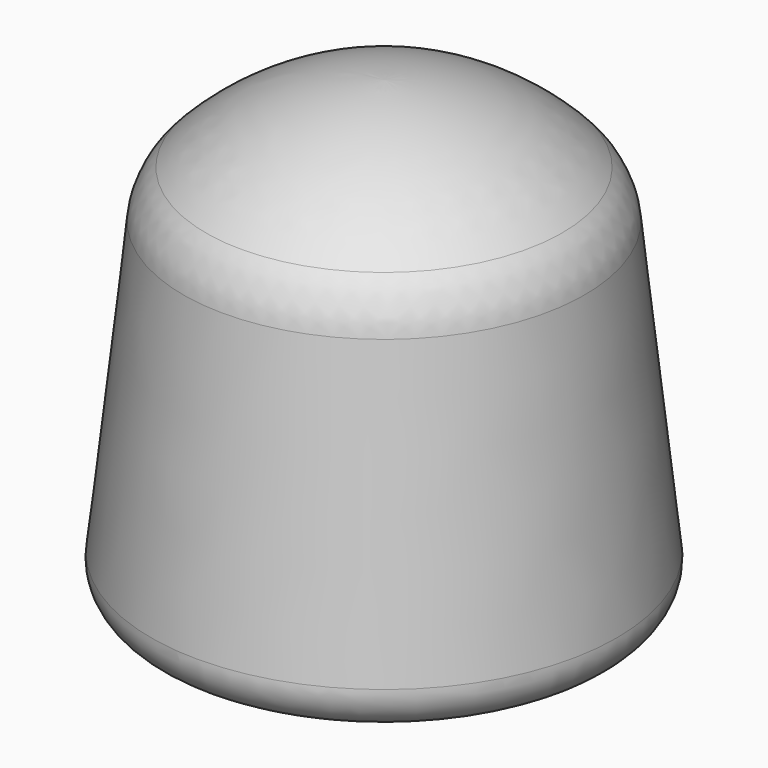
from build123d import *

# Parameters (mm, degrees)
F2_R = 25.4
F3_R = 50.8


with BuildPart() as f1:
    # F0 (on Front) → F1 (revolve)
    with BuildSketch(Plane.XZ):
        with BuildLine():
            Line((-152.4, 0), (0, 0))
            Line((0, 0), (0, 294.64))
            ThreePointArc((0, 294.64), (-70.59093, 277.01008), (-127, 231.054554))
            Line((-127, 231.054554), (-152.4, 0))
        make_face()
    revolve(axis=Axis((0, 0, 147.32), (0, 0, -1)))

    # F2
    f2_edges = [f1.edges().sort_by_distance(p)[0] for p in [
        (152.4, 0, 0),
    ]]
    fillet(f2_edges, radius=F2_R)

    # F3
    f3_edges = [f1.edges().sort_by_distance(p)[0] for p in [
        (127, 0, 231.054554),
    ]]
    fillet(f3_edges, radius=F3_R)


solid = f1.part
